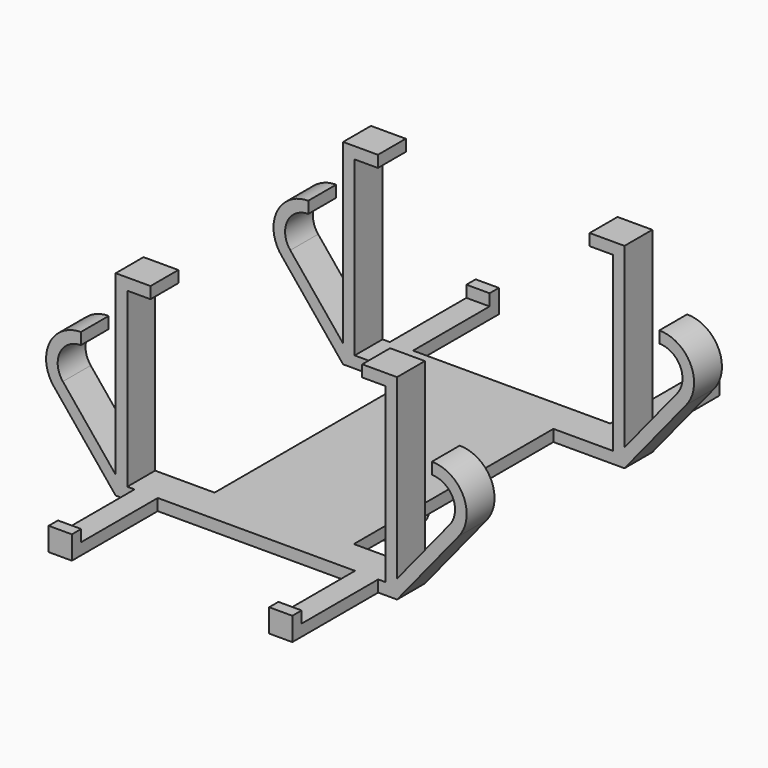
from build123d import *

# Parameters (mm, degrees)
F3_DEPTH  = 27.5
F5_DEPTH  = 27.5
F4_W      = 15.75
F4_H      = 43
F4_W_2    = 12.25
F6_DEPTH  = 33.751
F8_DEPTH  = 21
F10_DEPTH = 33.751
F11_W     = 2
F11_H     = 6.5
F12_DEPTH = 10
F13_W     = 2
F13_H     = 6.5
F14_DEPTH = 12.5


with BuildPart() as f1:
    # F0 (on Front) → F1 (revolve)
    with BuildSketch(Plane.XZ):
        Polygon((2, -16.875), (0, -16.875), (0, -18.3531418443), (2, -18.3531418443), (2, -24.875), (4, -24.875), (6, -22.875), (4, -22.875), (4, -16.875), align=None)
    revolve(axis=Axis((0, 0, -17.6140709221), (0, 0, 1)))

    # F0 (on Front) → F3 (join, symmetric)
    with BuildSketch(Plane.XZ):
        Polygon((-22.25, -14.875), (-22.25, 14.875), (-18.25, 14.875), (-18.25, 16.875), (-24.25, 16.875), (-24.25, -16.875), (0, -16.875), (2, -16.875), (4, -16.875), (24.25, -16.875), (24.25, 16.875), (18.25, 16.875), (18.25, 14.875), (22.25, 14.875), (22.25, -14.875), align=None)
    extrude(amount=F3_DEPTH, both=True)

    # F2 (on Front) → F5 (join, symmetric)
    with BuildSketch(Plane.XZ):
        with BuildLine():
            ThreePointArc((30.25, 4), (33.8625360184, 1.7174351563), (33.3521481806, -2.525208242))
            Line((33.3521481806, -2.525208242), (24.25, -13.7069444444))
            Line((24.25, -13.7069444444), (24.25, -16.875))
            Line((24.25, -16.875), (34.9032222709, -3.787812363))
            ThreePointArc((34.9032222709, -3.787812363), (35.6688040276, 2.5761527344), (30.25, 6))
            Line((30.25, 6), (30.25, 4))
        make_face()
        with BuildLine():
            ThreePointArc((-30.25, 6), (-35.6688040276, 2.5761527344), (-34.9032222709, -3.787812363))
            Line((-34.9032222709, -3.787812363), (-24.25, -16.875))
            Line((-24.25, -16.875), (-24.25, -13.7069444444))
            Line((-24.25, -13.7069444444), (-33.3521481806, -2.525208242))
            ThreePointArc((-33.3521481806, -2.525208242), (-33.8625360184, 1.7174351563), (-30.25, 4))
            Line((-30.25, 4), (-30.25, 6))
        make_face()
    extrude(amount=F5_DEPTH, both=True)

    # F4 (on face) → F6 (cut, through all)
    with BuildSketch(Plane(origin=(0, 0, -16.875), x_dir=(1, 0, 0), z_dir=(0, 0, -1))):
        with Locations((-32.125, 0)):
            Rectangle(F4_W, F4_H)
        with Locations((-18.125, 0)):
            Rectangle(F4_W_2, F4_H)
        with Locations((18.125, 0)):
            Rectangle(F4_W_2, F4_H)
        with Locations((32.125, 0)):
            Rectangle(F4_W, F4_H)
    extrude(amount=-F6_DEPTH, mode=Mode.SUBTRACT)

    # F7 (on Right) → F8 (join, symmetric)
    with BuildSketch(Plane.YZ):
        Polygon((-46, -16.875), (-27.5, -16.875), (-27.5, -14.875), (-44, -14.875), (-44, -12.875), (-46, -12.875), align=None)
        Polygon((46, -16.875), (46, -12.875), (44, -12.875), (44, -14.875), (27.5, -14.875), (27.5, -16.875), align=None)
    extrude(amount=F8_DEPTH, both=True)

    # F9 (on face) → F10 (cut, through all)
    with BuildSketch(Plane(origin=(0, 0, -16.875), x_dir=(1, 0, 0), z_dir=(0, 0, -1))):
        Polygon((17, 46), (-17, 46), (-17, 27.5), (0, 27.5), (17, 27.5), align=None)
        Polygon((-17, -27.5), (-17, -46), (17, -46), (17, -27.5), (0, -27.5), align=None)
    extrude(amount=-F10_DEPTH, mode=Mode.SUBTRACT)

    # F11 (on Front) → F12 (cut, symmetric)
    with BuildSketch(Plane.XZ):
        with Locations((1, -21.6578255147)):
            Rectangle(F11_W, F11_H)
        with Locations((-1, -21.6578255147)):
            Rectangle(F11_W, F11_H)
    extrude(amount=F12_DEPTH, both=True, mode=Mode.SUBTRACT)

    # F13 (on Right) → F14 (cut, symmetric)
    with BuildSketch(Plane.YZ):
        with Locations((1, -21.625)):
            Rectangle(F13_W, F13_H)
        with Locations((-1, -21.625)):
            Rectangle(F13_W, F13_H)
    extrude(amount=F14_DEPTH, both=True, mode=Mode.SUBTRACT)


solid = f1.part
